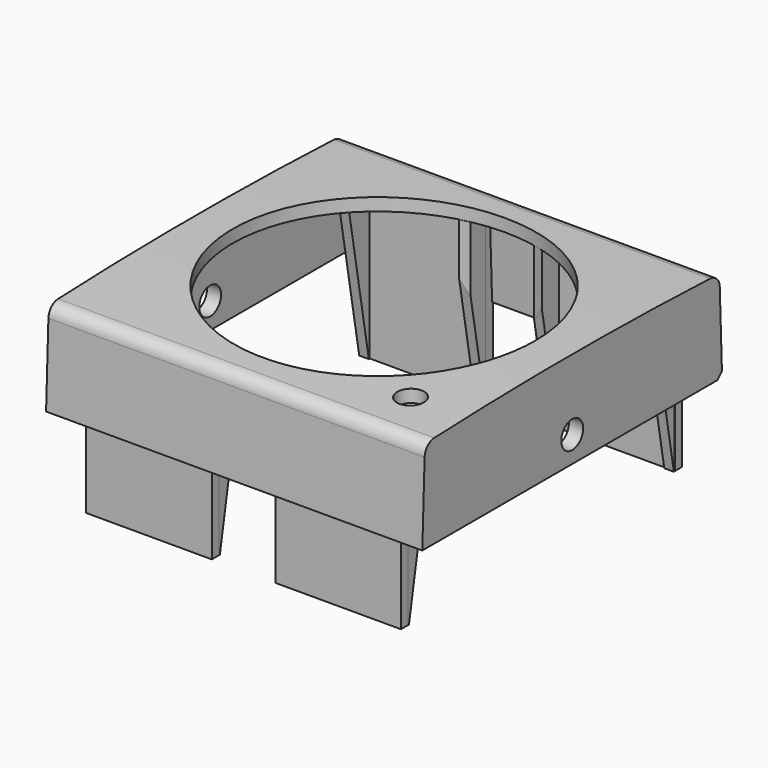
from build123d import *

# Parameters (mm, degrees)
PAD_DEPTH            = 20.6929
PAD001_DEPTH         = 1.692
PAD002_DEPTH         = 1.692
PAD003_START         = -1
SKETCH003_W          = 14.9418
SKETCH003_H          = 1.0711
PAD003_DEPTH         = 20.08
PAD004_DEPTH         = 1.1445
PAD005_DEPTH         = 1.1445
PAD006_DEPTH         = 1.1445
PAD007_DEPTH         = 1.1445
SKETCH008_R          = 18
SKETCH008_R_2        = 1.625
POCKET_DEPTH         = 21.0957
POCKET_DEPTH_BACK    = 0.4219
CHAMFER001_SIZE      = 0.7
SKETCH013_R          = 1.625
POCKET001_DEPTH      = 22.383
POCKET001_DEPTH_BACK = 22.383
BODY_PLACEMENT_ANGLE = 90


with BuildPart() as part:
    # Sketch → Pad (new body, symmetric)
    with BuildSketch(Plane.YZ):
        with BuildLine():
            ThreePointArc((0, 20.5122), (-0.4209, 0), (0, -20.5122))
            ThreePointArc((0, -20.5122), (0.44097, -21.514212), (1.445369, -21.949718))
            Line((1.445369, -21.949718), (11.0791, -22.292695))
            Line((11.0791, -22.292695), (11.0791, -20.791745))
            Line((1.498737, -20.450667), (11.0791, -20.791745))
            ThreePointArc((1.498737, 20.450667), (1.0791, 0), (1.498737, -20.450667))
            Line((1.498737, 20.450667), (11.0791, 20.791745))
            Line((11.0791, 20.791745), (11.0791, 22.292695))
            Line((1.445369, 21.949718), (11.0791, 22.292695))
            ThreePointArc((1.445369, 21.949718), (0.44097, 21.514212), (0, 20.5122))
        make_face()
    extrude(amount=PAD_DEPTH, both=True)

    # Sketch001 → Pad001 (join)
    with BuildSketch(Plane.YZ.offset(20.69)):
        with BuildLine():
            ThreePointArc((0, 20.5122), (-0.4209, 0), (0, -20.5122))
            ThreePointArc((0, -20.5122), (0.44097, -21.514212), (1.445369, -21.949718))
            Line((1.445369, -21.949718), (11.0791, -22.292695))
            Line((11.0791, 22.292695), (11.0791, -22.292695))
            Line((1.445369, 21.949718), (11.0791, 22.292695))
            ThreePointArc((1.445369, 21.949718), (0.44097, 21.514212), (0, 20.5122))
        make_face()
    extrude(amount=PAD001_DEPTH)

    # Sketch002 → Pad002 (join)
    with BuildSketch(Plane.YZ.offset(-20.69)):
        with BuildLine():
            ThreePointArc((0, 20.5122), (-0.4209, 0), (0, -20.5122))
            ThreePointArc((0, -20.5122), (0.44097, -21.514212), (1.445369, -21.949718))
            Line((1.445369, -21.949718), (11.0791, -22.292695))
            Line((11.0791, 22.292695), (11.0791, -22.292695))
            Line((1.445369, 21.949718), (11.0791, 22.292695))
            ThreePointArc((1.445369, 21.949718), (0.44097, 21.514212), (0, 20.5122))
        make_face()
    extrude(amount=-PAD002_DEPTH)

    # Sketch003 → Pad003 (join)
    with BuildSketch(Plane.XZ.offset(PAD003_START)):
        with Locations((-11.25, 20.36445)):
            Rectangle(SKETCH003_W, SKETCH003_H)
        with Locations((11.25, 20.36445)):
            Rectangle(SKETCH003_W, SKETCH003_H)
        with Locations((-11.25, -20.36445)):
            Rectangle(SKETCH003_W, SKETCH003_H)
        with Locations((11.25, -20.36445)):
            Rectangle(SKETCH003_W, SKETCH003_H)
    extrude(amount=-PAD003_DEPTH)

    # Sketch004 → Pad004 (join)
    with BuildSketch(Plane.YZ.offset(3.78)):
        Polygon((1.358658, 16.220017), (1.488, 19.8289), (21.0947, 19.8289), (21.0947, 19.7), align=None)
        Polygon((1.358658, -16.220017), (1.488, -19.8289), (21.0947, -19.8289), (21.0947, -19.7), align=None)
    extrude(amount=PAD004_DEPTH)

    # Sketch005 → Pad005 (join)
    with BuildSketch(Plane.YZ.offset(-3.78)):
        Polygon((1.358658, 16.220017), (1.488, 19.8289), (21.0947, 19.8289), (21.0947, 19.7), align=None)
        Polygon((1.358658, -16.220017), (1.488, -19.8289), (21.0947, -19.8289), (21.0947, -19.7), align=None)
    extrude(amount=-PAD005_DEPTH)

    # Sketch006 → Pad006 (join)
    with BuildSketch(Plane.YZ.offset(18.72)):
        Polygon((1.358658, 16.220017), (1.488, 19.8289), (21.0947, 19.8289), (21.0947, 19.7), align=None)
        Polygon((1.358658, -16.220017), (1.488, -19.8289), (21.0947, -19.8289), (21.0947, -19.7), align=None)
    extrude(amount=-PAD006_DEPTH)

    # Sketch007 → Pad007 (join)
    with BuildSketch(Plane.YZ.offset(-18.72)):
        Polygon((1.358658, 16.220017), (1.488, 19.8289), (21.0947, 19.8289), (21.0947, 19.7), align=None)
        Polygon((1.358658, -16.220017), (1.488, -19.8289), (21.0947, -19.8289), (21.0947, -19.7), align=None)
    extrude(amount=PAD007_DEPTH)

    # Sketch008 → Pocket (cut, two sides)
    with BuildSketch(Plane.XZ) as pocket_sk:
        Circle(SKETCH008_R)
        with Locations((15.750096, -15.750096)):
            Circle(SKETCH008_R_2)
    extrude(amount=-POCKET_DEPTH, mode=Mode.SUBTRACT)
    extrude(pocket_sk.sketch, amount=POCKET_DEPTH_BACK, mode=Mode.SUBTRACT)

    # Chamfer001
    chamfer001_edges = [part.edges().sort_by_distance(p)[0] for p in [
        (-20.69, 6.288919, 20.621206),
        (20.69, 6.288919, 20.621206),
        (21.53745, 11.0791, 22.292695),
        (-20.69, 6.288919, -20.621206),
    ]]
    chamfer(chamfer001_edges, length=CHAMFER001_SIZE)

    # Sketch013 → Pocket001 (cut, two sides)
    with BuildSketch(Plane.YZ) as pocket001_sk:
        with Locations((8, 0)):
            Circle(SKETCH013_R)
    extrude(amount=-POCKET001_DEPTH, mode=Mode.SUBTRACT)
    extrude(pocket001_sk.sketch, amount=POCKET001_DEPTH_BACK, mode=Mode.SUBTRACT)


with BuildPart() as part_1:
    # Body placement: moved
    add(part.part.moved(Location((0, 0, 12))).rotate(Axis((0, 0, 12), (-1, 0, 0)), BODY_PLACEMENT_ANGLE))


solid = part_1.part
